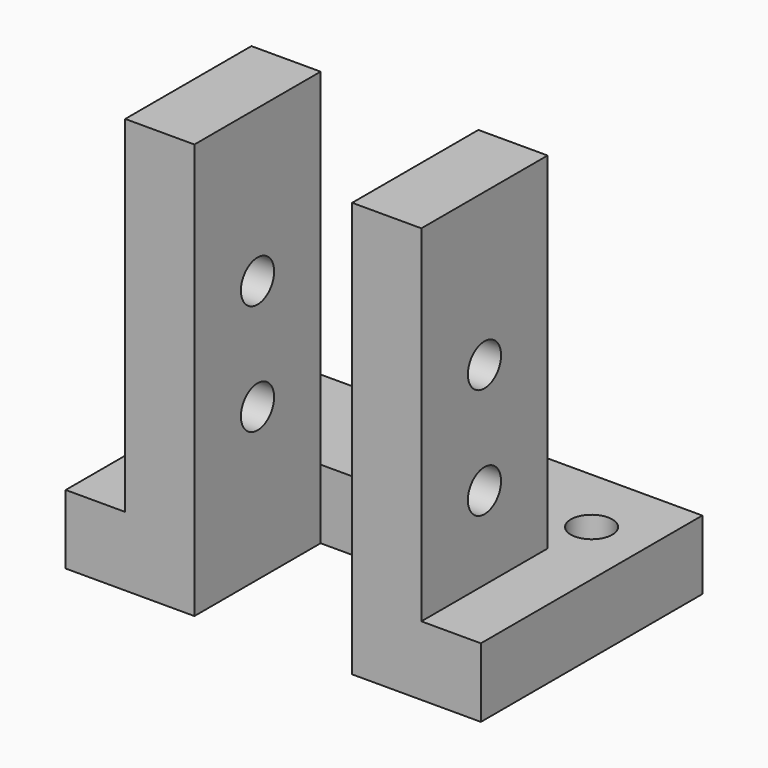
from build123d import *

# Parameters (mm, degrees)
SKETCH_R     = 1.5
PAD_DEPTH    = 5
SKETCH001_W  = 5
SKETCH001_H  = 11.4
PAD001_DEPTH = 25
SKETCH002_R  = 1.5
POCKET_DEPTH = 25.701


with BuildPart() as part:
    # Sketch → Pad (new body)
    with BuildSketch(Plane.XY):
        Polygon((0, 0), (0, 20), (30, 20), (30, 0), (20.7, 0), (20.7, 11.4), (9.3, 11.4), (9.3, 0), align=None)
        with Locations((4, 15)):
            Circle(SKETCH_R, mode=Mode.SUBTRACT)
        with Locations((26, 15)):
            Circle(SKETCH_R, mode=Mode.SUBTRACT)
    extrude(amount=PAD_DEPTH)

    # Sketch001 → Pad001 (new body)
    with BuildSketch(Plane.XY.offset(5)):
        with Locations((6.8, 5.7)):
            Rectangle(SKETCH001_W, SKETCH001_H)
        with Locations((23.2, 5.7)):
            Rectangle(SKETCH001_W, SKETCH001_H)
    extrude(amount=PAD001_DEPTH)

    # Sketch002 → Pocket (cut, through all)
    with BuildSketch(Plane.YZ.offset(25.7)):
        with Locations((5.7, 19)):
            Circle(SKETCH002_R)
        with Locations((5.7, 11)):
            Circle(SKETCH002_R)
    extrude(amount=-POCKET_DEPTH, mode=Mode.SUBTRACT)


solid = part.part
